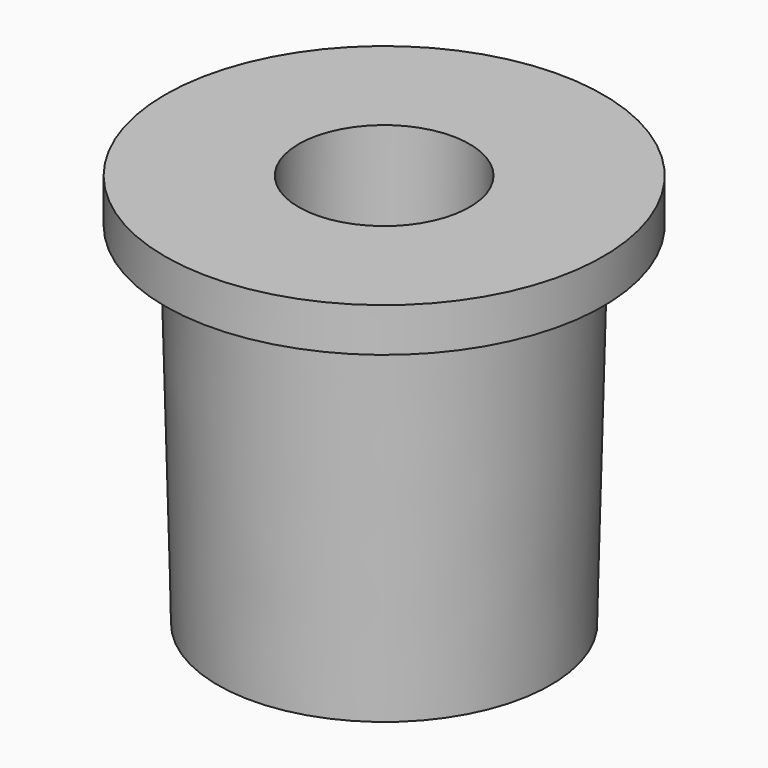
from build123d import *


with BuildPart() as part:
    # Sketch → Revolution (revolve)
    with BuildSketch(Plane.XZ):
        Polygon((-1.95, 1), (-1.95, -3), (-2.2, -3), (-2.2, -8), (-3.8, -8), (-4, 0), (-5, 0), (-5, 1), align=None)
    revolve(axis=Axis((0, 0, 0), (0, 0, 1)))


solid = part.part
